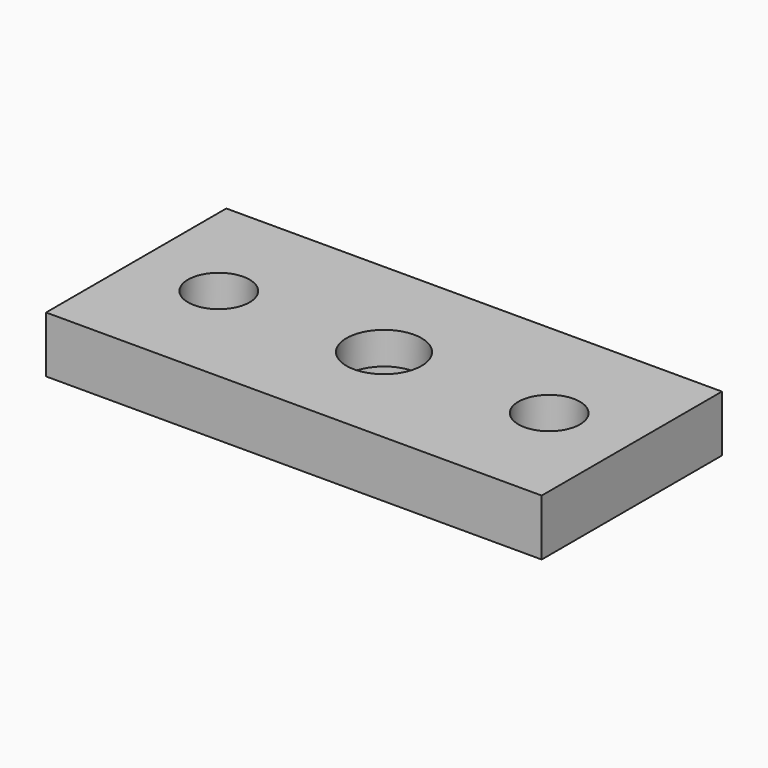
from build123d import *

# Parameters (mm, degrees)
F0_W     = 660
F0_H     = 300
F0_R     = 75.5
F0_R_2   = 90.5
F0_R_3   = 41
F0_R_4   = 50
F1_DEPTH = 75
F2_DEPTH = 32


with BuildPart() as f1:
    # F0 (on Top) → F1 (new body)
    with BuildSketch(Plane.XY):
        Rectangle(F0_W, F0_H)
        with Locations((-220, 0)):
            Circle(F0_R, mode=Mode.SUBTRACT)
        Circle(F0_R_2, mode=Mode.SUBTRACT)
        with Locations((220, 0)):
            Circle(F0_R, mode=Mode.SUBTRACT)
        with Locations((-220, 0)):
            Circle(F0_R)
        with Locations((-220, 0)):
            Circle(F0_R_3, mode=Mode.SUBTRACT)
        Circle(F0_R_2)
        Circle(F0_R_4, mode=Mode.SUBTRACT)
        with Locations((220, 0)):
            Circle(F0_R)
        with Locations((220, 0)):
            Circle(F0_R_3, mode=Mode.SUBTRACT)
    extrude(amount=F1_DEPTH)

    # F0 (on Top) → F2 (cut)
    with BuildSketch(Plane.XY):
        with Locations((-220, 0)):
            Circle(F0_R)
        with Locations((-220, 0)):
            Circle(F0_R_3, mode=Mode.SUBTRACT)
        Circle(F0_R_2)
        Circle(F0_R_4, mode=Mode.SUBTRACT)
        with Locations((220, 0)):
            Circle(F0_R)
        with Locations((220, 0)):
            Circle(F0_R_3, mode=Mode.SUBTRACT)
    extrude(amount=F2_DEPTH, mode=Mode.SUBTRACT)


solid = f1.part
